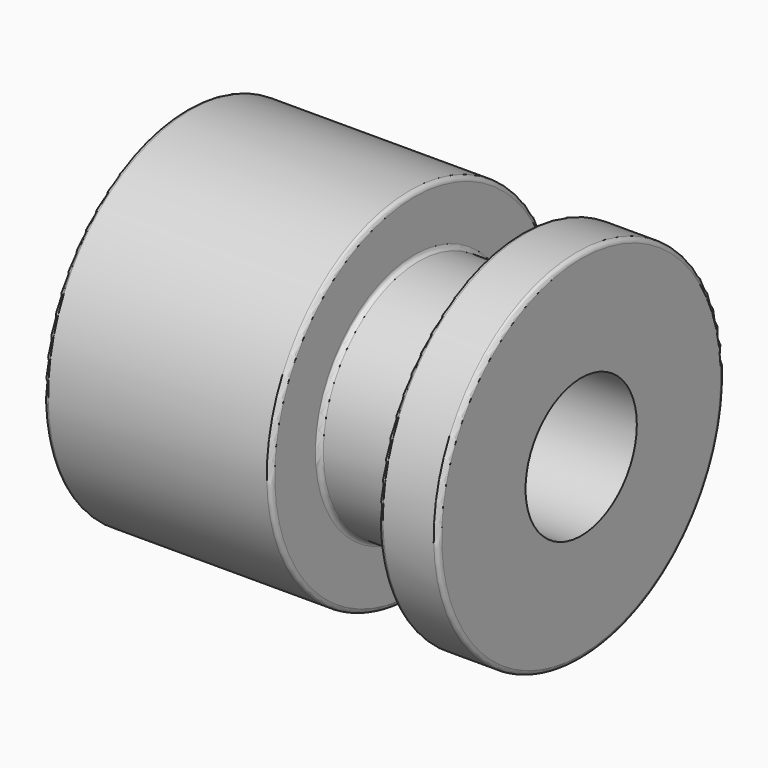
from build123d import *

# Parameters (mm, degrees)
F2_R     = 4.445
F3_DEPTH = 25.204566


with BuildPart() as f1:
    # F0 (on Front) → F1 (revolve)
    with BuildSketch(Plane.XZ):
        with BuildLine():
            Line((-25.203566, 0), (0, 0))
            Line((0, 0), (0, 11.147217))
            ThreePointArc((0, 11.147217), (-0.082825, 11.347175), (-0.282783, 11.43))
            Line((-0.282783, 11.43), (-3.527217, 11.43))
            ThreePointArc((-3.527217, 11.43), (-3.727175, 11.347175), (-3.81, 11.147217))
            Line((-3.81, 11.147217), (-3.81, 7.902783))
            ThreePointArc((-3.81, 7.902783), (-3.892825, 7.702825), (-4.092783, 7.62))
            Line((-4.092783, 7.62), (-10.385217, 7.62))
            ThreePointArc((-10.385217, 7.62), (-10.585175, 7.702825), (-10.668, 7.902783))
            Line((-10.668, 7.902783), (-10.668, 11.147217))
            ThreePointArc((-10.668, 11.147217), (-10.750825, 11.347175), (-10.950783, 11.43))
            Line((-10.950783, 11.43), (-24.920783, 11.43))
            ThreePointArc((-24.920783, 11.43), (-25.120741, 11.347175), (-25.203566, 11.147217))
            Line((-25.203566, 11.147217), (-25.203566, 7.62))
            Line((-25.203566, 7.62), (-25.203566, 0))
        make_face()
    revolve(axis=Axis((-12.601783, 0, 0), (1, 0, 0)))

    # F2 (on Right) → F3 (cut, through all)
    with BuildSketch(Plane.YZ):
        Circle(F2_R)
    extrude(amount=-F3_DEPTH, mode=Mode.SUBTRACT)


solid = f1.part
